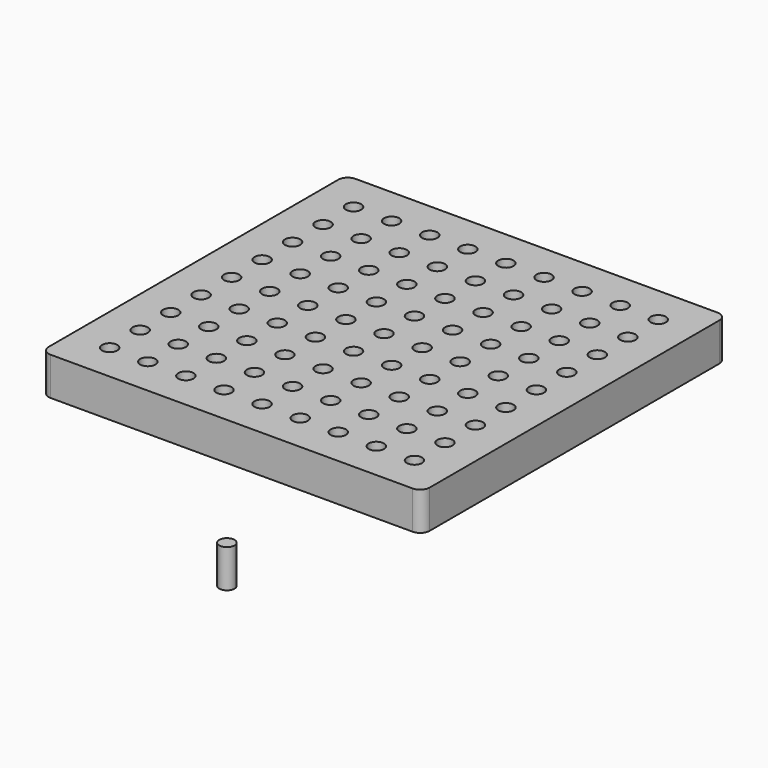
from build123d import *

# Parameters (mm, degrees)
F0_R     = 5.08
F1_DEPTH = 2.54
F2_DEPTH = 25.4


with BuildPart() as f1:
    # F0 (on Top) → F1 (new body)
    with BuildSketch(Plane.XY):
        with BuildLine():
            Line((179.35445, 104.265114), (58.70445, 104.265114))
            Line((58.70445, 104.265114), (-61.94555, 104.265114))
            ThreePointArc((-61.94555, 104.265114), (-66.435678, 102.405242), (-68.29555, 97.915114))
            Line((-68.29555, 97.915114), (-68.29555, -22.734886))
            Line((-68.29555, -22.734886), (-68.29555, -143.384886))
            ThreePointArc((-68.29555, -143.384886), (-66.435678, -147.875014), (-61.94555, -149.734886))
            Line((-61.94555, -149.734886), (58.70445, -149.734886))
            Line((58.70445, -149.734886), (179.35445, -149.734886))
            ThreePointArc((179.35445, -149.734886), (183.844578, -147.875014), (185.70445, -143.384886))
            Line((185.70445, -143.384886), (185.70445, -22.734886))
            Line((185.70445, -22.734886), (185.70445, 97.915114))
            ThreePointArc((185.70445, 97.915114), (183.844578, 102.405242), (179.35445, 104.265114))
        make_face()
        with Locations((-42.89555, -124.334886)):
            Circle(F0_R, mode=Mode.SUBTRACT)
        with Locations((-42.89555, -98.934886)):
            Circle(F0_R, mode=Mode.SUBTRACT)
        with Locations((-17.49555, -124.334886)):
            Circle(F0_R, mode=Mode.SUBTRACT)
        with Locations((-17.49555, -98.934886)):
            Circle(F0_R, mode=Mode.SUBTRACT)
        with Locations((7.90445, -124.334886)):
            Circle(F0_R, mode=Mode.SUBTRACT)
        with Locations((7.90445, -98.934886)):
            Circle(F0_R, mode=Mode.SUBTRACT)
        with Locations((33.30445, -124.334886)):
            Circle(F0_R, mode=Mode.SUBTRACT)
        with Locations((58.70445, -124.334886)):
            Circle(F0_R, mode=Mode.SUBTRACT)
        with Locations((33.30445, -98.934886)):
            Circle(F0_R, mode=Mode.SUBTRACT)
        with Locations((58.70445, -98.934886)):
            Circle(F0_R, mode=Mode.SUBTRACT)
        with Locations((84.10445, -124.334886)):
            Circle(F0_R, mode=Mode.SUBTRACT)
        with Locations((84.10445, -98.934886)):
            Circle(F0_R, mode=Mode.SUBTRACT)
        with Locations((109.50445, -124.334886)):
            Circle(F0_R, mode=Mode.SUBTRACT)
        with Locations((109.50445, -98.934886)):
            Circle(F0_R, mode=Mode.SUBTRACT)
        with Locations((134.90445, -124.334886)):
            Circle(F0_R, mode=Mode.SUBTRACT)
        with Locations((134.90445, -98.934886)):
            Circle(F0_R, mode=Mode.SUBTRACT)
        with Locations((160.30445, -124.334886)):
            Circle(F0_R, mode=Mode.SUBTRACT)
        with Locations((160.30445, -98.934886)):
            Circle(F0_R, mode=Mode.SUBTRACT)
        with Locations((-42.89555, -73.534886)):
            Circle(F0_R, mode=Mode.SUBTRACT)
        with Locations((-42.89555, -48.134886)):
            Circle(F0_R, mode=Mode.SUBTRACT)
        with Locations((-17.49555, -73.534886)):
            Circle(F0_R, mode=Mode.SUBTRACT)
        with Locations((-17.49555, -48.134886)):
            Circle(F0_R, mode=Mode.SUBTRACT)
        with Locations((-42.89555, -22.734886)):
            Circle(F0_R, mode=Mode.SUBTRACT)
        with Locations((-42.89555, 2.665114)):
            Circle(F0_R, mode=Mode.SUBTRACT)
        with Locations((-17.49555, -22.734886)):
            Circle(F0_R, mode=Mode.SUBTRACT)
        with Locations((-17.49555, 2.665114)):
            Circle(F0_R, mode=Mode.SUBTRACT)
        with Locations((7.90445, -73.534886)):
            Circle(F0_R, mode=Mode.SUBTRACT)
        with Locations((7.90445, -48.134886)):
            Circle(F0_R, mode=Mode.SUBTRACT)
        with Locations((33.30445, -73.534886)):
            Circle(F0_R, mode=Mode.SUBTRACT)
        with Locations((58.70445, -73.534886)):
            Circle(F0_R, mode=Mode.SUBTRACT)
        with Locations((33.30445, -48.134886)):
            Circle(F0_R, mode=Mode.SUBTRACT)
        with Locations((58.70445, -48.134886)):
            Circle(F0_R, mode=Mode.SUBTRACT)
        with Locations((7.90445, -22.734886)):
            Circle(F0_R, mode=Mode.SUBTRACT)
        with Locations((7.90445, 2.665114)):
            Circle(F0_R, mode=Mode.SUBTRACT)
        with Locations((33.30445, -22.734886)):
            Circle(F0_R, mode=Mode.SUBTRACT)
        with Locations((58.70445, -22.734886)):
            Circle(F0_R, mode=Mode.SUBTRACT)
        with Locations((33.30445, 2.665114)):
            Circle(F0_R, mode=Mode.SUBTRACT)
        with Locations((58.70445, 2.665114)):
            Circle(F0_R, mode=Mode.SUBTRACT)
        with Locations((-42.89555, 28.065114)):
            Circle(F0_R, mode=Mode.SUBTRACT)
        with Locations((-42.89555, 53.465114)):
            Circle(F0_R, mode=Mode.SUBTRACT)
        with Locations((-17.49555, 28.065114)):
            Circle(F0_R, mode=Mode.SUBTRACT)
        with Locations((-17.49555, 53.465114)):
            Circle(F0_R, mode=Mode.SUBTRACT)
        with Locations((-42.89555, 78.865114)):
            Circle(F0_R, mode=Mode.SUBTRACT)
        with Locations((-17.49555, 78.865114)):
            Circle(F0_R, mode=Mode.SUBTRACT)
        with Locations((7.90445, 28.065114)):
            Circle(F0_R, mode=Mode.SUBTRACT)
        with Locations((7.90445, 53.465114)):
            Circle(F0_R, mode=Mode.SUBTRACT)
        with Locations((33.30445, 28.065114)):
            Circle(F0_R, mode=Mode.SUBTRACT)
        with Locations((58.70445, 28.065114)):
            Circle(F0_R, mode=Mode.SUBTRACT)
        with Locations((33.30445, 53.465114)):
            Circle(F0_R, mode=Mode.SUBTRACT)
        with Locations((58.70445, 53.465114)):
            Circle(F0_R, mode=Mode.SUBTRACT)
        with Locations((7.90445, 78.865114)):
            Circle(F0_R, mode=Mode.SUBTRACT)
        with Locations((33.30445, 78.865114)):
            Circle(F0_R, mode=Mode.SUBTRACT)
        with Locations((58.70445, 78.865114)):
            Circle(F0_R, mode=Mode.SUBTRACT)
        with Locations((84.10445, -73.534886)):
            Circle(F0_R, mode=Mode.SUBTRACT)
        with Locations((84.10445, -48.134886)):
            Circle(F0_R, mode=Mode.SUBTRACT)
        with Locations((109.50445, -73.534886)):
            Circle(F0_R, mode=Mode.SUBTRACT)
        with Locations((109.50445, -48.134886)):
            Circle(F0_R, mode=Mode.SUBTRACT)
        with Locations((84.10445, -22.734886)):
            Circle(F0_R, mode=Mode.SUBTRACT)
        with Locations((84.10445, 2.665114)):
            Circle(F0_R, mode=Mode.SUBTRACT)
        with Locations((109.50445, -22.734886)):
            Circle(F0_R, mode=Mode.SUBTRACT)
        with Locations((109.50445, 2.665114)):
            Circle(F0_R, mode=Mode.SUBTRACT)
        with Locations((134.90445, -73.534886)):
            Circle(F0_R, mode=Mode.SUBTRACT)
        with Locations((134.90445, -48.134886)):
            Circle(F0_R, mode=Mode.SUBTRACT)
        with Locations((160.30445, -73.534886)):
            Circle(F0_R, mode=Mode.SUBTRACT)
        with Locations((160.30445, -48.134886)):
            Circle(F0_R, mode=Mode.SUBTRACT)
        with Locations((134.90445, -22.734886)):
            Circle(F0_R, mode=Mode.SUBTRACT)
        with Locations((134.90445, 2.665114)):
            Circle(F0_R, mode=Mode.SUBTRACT)
        with Locations((160.30445, -22.734886)):
            Circle(F0_R, mode=Mode.SUBTRACT)
        with Locations((160.30445, 2.665114)):
            Circle(F0_R, mode=Mode.SUBTRACT)
        with Locations((84.10445, 28.065114)):
            Circle(F0_R, mode=Mode.SUBTRACT)
        with Locations((84.10445, 53.465114)):
            Circle(F0_R, mode=Mode.SUBTRACT)
        with Locations((109.50445, 28.065114)):
            Circle(F0_R, mode=Mode.SUBTRACT)
        with Locations((109.50445, 53.465114)):
            Circle(F0_R, mode=Mode.SUBTRACT)
        with Locations((84.10445, 78.865114)):
            Circle(F0_R, mode=Mode.SUBTRACT)
        with Locations((109.50445, 78.865114)):
            Circle(F0_R, mode=Mode.SUBTRACT)
        with Locations((134.90445, 28.065114)):
            Circle(F0_R, mode=Mode.SUBTRACT)
        with Locations((134.90445, 53.465114)):
            Circle(F0_R, mode=Mode.SUBTRACT)
        with Locations((160.30445, 28.065114)):
            Circle(F0_R, mode=Mode.SUBTRACT)
        with Locations((160.30445, 53.465114)):
            Circle(F0_R, mode=Mode.SUBTRACT)
        with Locations((134.90445, 78.865114)):
            Circle(F0_R, mode=Mode.SUBTRACT)
        with Locations((160.30445, 78.865114)):
            Circle(F0_R, mode=Mode.SUBTRACT)
    extrude(amount=F1_DEPTH)

    # F0 (on Top) → F2 (join)
    with BuildSketch(Plane.XY):
        with BuildLine():
            Line((179.35445, 104.265114), (58.70445, 104.265114))
            Line((58.70445, 104.265114), (-61.94555, 104.265114))
            ThreePointArc((-61.94555, 104.265114), (-66.435678, 102.405242), (-68.29555, 97.915114))
            Line((-68.29555, 97.915114), (-68.29555, -22.734886))
            Line((-68.29555, -22.734886), (-68.29555, -143.384886))
            ThreePointArc((-68.29555, -143.384886), (-66.435678, -147.875014), (-61.94555, -149.734886))
            Line((-61.94555, -149.734886), (58.70445, -149.734886))
            Line((58.70445, -149.734886), (179.35445, -149.734886))
            ThreePointArc((179.35445, -149.734886), (183.844578, -147.875014), (185.70445, -143.384886))
            Line((185.70445, -143.384886), (185.70445, -22.734886))
            Line((185.70445, -22.734886), (185.70445, 97.915114))
            ThreePointArc((185.70445, 97.915114), (183.844578, 102.405242), (179.35445, 104.265114))
        make_face()
        with Locations((-42.89555, -124.334886)):
            Circle(F0_R, mode=Mode.SUBTRACT)
        with Locations((-42.89555, -98.934886)):
            Circle(F0_R, mode=Mode.SUBTRACT)
        with Locations((-17.49555, -124.334886)):
            Circle(F0_R, mode=Mode.SUBTRACT)
        with Locations((-17.49555, -98.934886)):
            Circle(F0_R, mode=Mode.SUBTRACT)
        with Locations((7.90445, -124.334886)):
            Circle(F0_R, mode=Mode.SUBTRACT)
        with Locations((7.90445, -98.934886)):
            Circle(F0_R, mode=Mode.SUBTRACT)
        with Locations((33.30445, -124.334886)):
            Circle(F0_R, mode=Mode.SUBTRACT)
        with Locations((58.70445, -124.334886)):
            Circle(F0_R, mode=Mode.SUBTRACT)
        with Locations((33.30445, -98.934886)):
            Circle(F0_R, mode=Mode.SUBTRACT)
        with Locations((58.70445, -98.934886)):
            Circle(F0_R, mode=Mode.SUBTRACT)
        with Locations((84.10445, -124.334886)):
            Circle(F0_R, mode=Mode.SUBTRACT)
        with Locations((84.10445, -98.934886)):
            Circle(F0_R, mode=Mode.SUBTRACT)
        with Locations((109.50445, -124.334886)):
            Circle(F0_R, mode=Mode.SUBTRACT)
        with Locations((109.50445, -98.934886)):
            Circle(F0_R, mode=Mode.SUBTRACT)
        with Locations((134.90445, -124.334886)):
            Circle(F0_R, mode=Mode.SUBTRACT)
        with Locations((134.90445, -98.934886)):
            Circle(F0_R, mode=Mode.SUBTRACT)
        with Locations((160.30445, -124.334886)):
            Circle(F0_R, mode=Mode.SUBTRACT)
        with Locations((160.30445, -98.934886)):
            Circle(F0_R, mode=Mode.SUBTRACT)
        with Locations((-42.89555, -73.534886)):
            Circle(F0_R, mode=Mode.SUBTRACT)
        with Locations((-42.89555, -48.134886)):
            Circle(F0_R, mode=Mode.SUBTRACT)
        with Locations((-17.49555, -73.534886)):
            Circle(F0_R, mode=Mode.SUBTRACT)
        with Locations((-17.49555, -48.134886)):
            Circle(F0_R, mode=Mode.SUBTRACT)
        with Locations((-42.89555, -22.734886)):
            Circle(F0_R, mode=Mode.SUBTRACT)
        with Locations((-42.89555, 2.665114)):
            Circle(F0_R, mode=Mode.SUBTRACT)
        with Locations((-17.49555, -22.734886)):
            Circle(F0_R, mode=Mode.SUBTRACT)
        with Locations((-17.49555, 2.665114)):
            Circle(F0_R, mode=Mode.SUBTRACT)
        with Locations((7.90445, -73.534886)):
            Circle(F0_R, mode=Mode.SUBTRACT)
        with Locations((7.90445, -48.134886)):
            Circle(F0_R, mode=Mode.SUBTRACT)
        with Locations((33.30445, -73.534886)):
            Circle(F0_R, mode=Mode.SUBTRACT)
        with Locations((58.70445, -73.534886)):
            Circle(F0_R, mode=Mode.SUBTRACT)
        with Locations((33.30445, -48.134886)):
            Circle(F0_R, mode=Mode.SUBTRACT)
        with Locations((58.70445, -48.134886)):
            Circle(F0_R, mode=Mode.SUBTRACT)
        with Locations((7.90445, -22.734886)):
            Circle(F0_R, mode=Mode.SUBTRACT)
        with Locations((7.90445, 2.665114)):
            Circle(F0_R, mode=Mode.SUBTRACT)
        with Locations((33.30445, -22.734886)):
            Circle(F0_R, mode=Mode.SUBTRACT)
        with Locations((58.70445, -22.734886)):
            Circle(F0_R, mode=Mode.SUBTRACT)
        with Locations((33.30445, 2.665114)):
            Circle(F0_R, mode=Mode.SUBTRACT)
        with Locations((58.70445, 2.665114)):
            Circle(F0_R, mode=Mode.SUBTRACT)
        with Locations((-42.89555, 28.065114)):
            Circle(F0_R, mode=Mode.SUBTRACT)
        with Locations((-42.89555, 53.465114)):
            Circle(F0_R, mode=Mode.SUBTRACT)
        with Locations((-17.49555, 28.065114)):
            Circle(F0_R, mode=Mode.SUBTRACT)
        with Locations((-17.49555, 53.465114)):
            Circle(F0_R, mode=Mode.SUBTRACT)
        with Locations((-42.89555, 78.865114)):
            Circle(F0_R, mode=Mode.SUBTRACT)
        with Locations((-17.49555, 78.865114)):
            Circle(F0_R, mode=Mode.SUBTRACT)
        with Locations((7.90445, 28.065114)):
            Circle(F0_R, mode=Mode.SUBTRACT)
        with Locations((7.90445, 53.465114)):
            Circle(F0_R, mode=Mode.SUBTRACT)
        with Locations((33.30445, 28.065114)):
            Circle(F0_R, mode=Mode.SUBTRACT)
        with Locations((58.70445, 28.065114)):
            Circle(F0_R, mode=Mode.SUBTRACT)
        with Locations((33.30445, 53.465114)):
            Circle(F0_R, mode=Mode.SUBTRACT)
        with Locations((58.70445, 53.465114)):
            Circle(F0_R, mode=Mode.SUBTRACT)
        with Locations((7.90445, 78.865114)):
            Circle(F0_R, mode=Mode.SUBTRACT)
        with Locations((33.30445, 78.865114)):
            Circle(F0_R, mode=Mode.SUBTRACT)
        with Locations((58.70445, 78.865114)):
            Circle(F0_R, mode=Mode.SUBTRACT)
        with Locations((84.10445, -73.534886)):
            Circle(F0_R, mode=Mode.SUBTRACT)
        with Locations((84.10445, -48.134886)):
            Circle(F0_R, mode=Mode.SUBTRACT)
        with Locations((109.50445, -73.534886)):
            Circle(F0_R, mode=Mode.SUBTRACT)
        with Locations((109.50445, -48.134886)):
            Circle(F0_R, mode=Mode.SUBTRACT)
        with Locations((84.10445, -22.734886)):
            Circle(F0_R, mode=Mode.SUBTRACT)
        with Locations((84.10445, 2.665114)):
            Circle(F0_R, mode=Mode.SUBTRACT)
        with Locations((109.50445, -22.734886)):
            Circle(F0_R, mode=Mode.SUBTRACT)
        with Locations((109.50445, 2.665114)):
            Circle(F0_R, mode=Mode.SUBTRACT)
        with Locations((134.90445, -73.534886)):
            Circle(F0_R, mode=Mode.SUBTRACT)
        with Locations((134.90445, -48.134886)):
            Circle(F0_R, mode=Mode.SUBTRACT)
        with Locations((160.30445, -73.534886)):
            Circle(F0_R, mode=Mode.SUBTRACT)
        with Locations((160.30445, -48.134886)):
            Circle(F0_R, mode=Mode.SUBTRACT)
        with Locations((134.90445, -22.734886)):
            Circle(F0_R, mode=Mode.SUBTRACT)
        with Locations((134.90445, 2.665114)):
            Circle(F0_R, mode=Mode.SUBTRACT)
        with Locations((160.30445, -22.734886)):
            Circle(F0_R, mode=Mode.SUBTRACT)
        with Locations((160.30445, 2.665114)):
            Circle(F0_R, mode=Mode.SUBTRACT)
        with Locations((84.10445, 28.065114)):
            Circle(F0_R, mode=Mode.SUBTRACT)
        with Locations((84.10445, 53.465114)):
            Circle(F0_R, mode=Mode.SUBTRACT)
        with Locations((109.50445, 28.065114)):
            Circle(F0_R, mode=Mode.SUBTRACT)
        with Locations((109.50445, 53.465114)):
            Circle(F0_R, mode=Mode.SUBTRACT)
        with Locations((84.10445, 78.865114)):
            Circle(F0_R, mode=Mode.SUBTRACT)
        with Locations((109.50445, 78.865114)):
            Circle(F0_R, mode=Mode.SUBTRACT)
        with Locations((134.90445, 28.065114)):
            Circle(F0_R, mode=Mode.SUBTRACT)
        with Locations((134.90445, 53.465114)):
            Circle(F0_R, mode=Mode.SUBTRACT)
        with Locations((160.30445, 28.065114)):
            Circle(F0_R, mode=Mode.SUBTRACT)
        with Locations((160.30445, 53.465114)):
            Circle(F0_R, mode=Mode.SUBTRACT)
        with Locations((134.90445, 78.865114)):
            Circle(F0_R, mode=Mode.SUBTRACT)
        with Locations((160.30445, 78.865114)):
            Circle(F0_R, mode=Mode.SUBTRACT)
        with Locations((142.052799, -257.841229)):
            Circle(F0_R)
    extrude(amount=F2_DEPTH)


solid = f1.part
